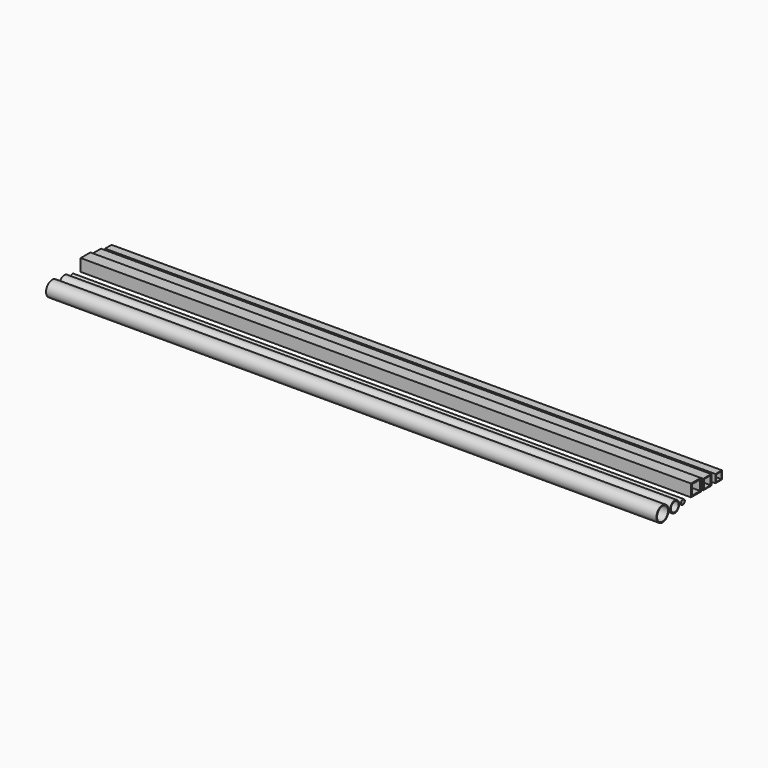
from build123d import *

# Parameters (mm, degrees)
F0_R     = 55
F0_R_2   = 47
F0_R_3   = 24.15
F0_R_4   = 19.15
F0_W     = 120
F0_H     = 120
F0_W_2   = 100.908783
F0_H_2   = 97.940877
F0_W_3   = 100
F0_H_3   = 100
F0_W_4   = 83.84332
F0_H_4   = 86.069254
F0_W_5   = 80
F0_H_5   = 80
F0_W_6   = 66.035896
F0_H_6   = 66.777872
F0_R_5   = 75
F0_R_6   = 67
F1_DEPTH = 6000


with BuildPart() as f1:
    # F0 (on Right) → F1 (new body)
    with BuildSketch(Plane.YZ):
        with Locations((-200, 0)):
            Circle(F0_R)
        with Locations((-200, 0)):
            Circle(F0_R_2, mode=Mode.SUBTRACT)
        with Locations((-100, 0)):
            Circle(F0_R_3)
        with Locations((-100, 0)):
            Circle(F0_R_4, mode=Mode.SUBTRACT)
        with Locations((60, 60)):
            Rectangle(F0_W, F0_H)
        with Locations((61.758021, 59.582129)):
            Rectangle(F0_W_2, F0_H_2, mode=Mode.SUBTRACT)
        with Locations((200, 50)):
            Rectangle(F0_W_3, F0_H_3)
        with Locations((200.136602, 49.936437)):
            Rectangle(F0_W_4, F0_H_4, mode=Mode.SUBTRACT)
        with Locations((340, 40)):
            Rectangle(F0_W_5, F0_H_5)
        with Locations((339.628145, 39.548769)):
            Rectangle(F0_W_6, F0_H_6, mode=Mode.SUBTRACT)
        with Locations((-350, 0)):
            Circle(F0_R_5)
        with Locations((-350, 0)):
            Circle(F0_R_6, mode=Mode.SUBTRACT)
    extrude(amount=F1_DEPTH)


solid = f1.part
